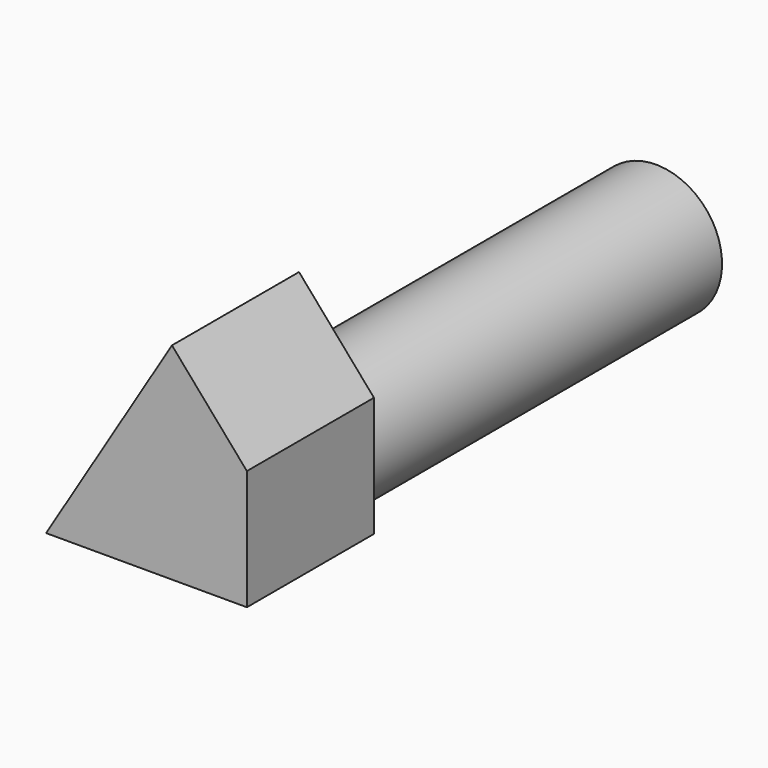
from build123d import *

# Parameters (mm, degrees)
F1_DEPTH = 111.651853
F2_R     = 46.360337
F3_DEPTH = 307.816686


with BuildPart() as f1:
    # F0 (on Front) → F1 (new body)
    with BuildSketch(Plane.XZ):
        Polygon((0, 0), (141.16028, 0), (141.16028, 84.286302), (88.496365, 144.964725), align=None)
    extrude(amount=F1_DEPTH)

    # F2 (on face) → F3 (join)
    with BuildSketch(Plane(origin=(0, 0, 0), x_dir=(-1, 0, 0), z_dir=(0, 1, 0))):
        with Locations((-93.247063, 41.50847)):
            Circle(F2_R)
    extrude(amount=F3_DEPTH)


solid = f1.part
